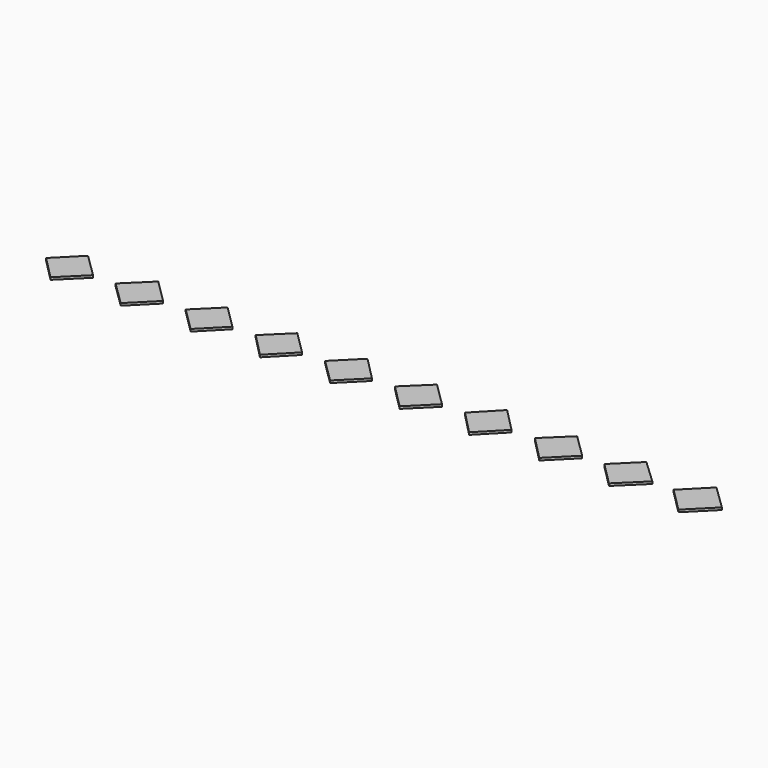
from build123d import *

# Parameters (mm, degrees)
PAD_DEPTH    = 0.1
PAD001_DEPTH = 0.1
PAD002_DEPTH = 0.1
PAD003_DEPTH = 0.1
PAD004_DEPTH = 0.1
PAD005_DEPTH = 0.1
PAD006_DEPTH = 0.1
PAD007_DEPTH = 0.1
PAD008_DEPTH = 0.1
PAD009_DEPTH = 0.1


with BuildPart() as body:
    # Sketch → Pad (new body)
    with BuildSketch(Plane.XY):
        Polygon((-50.003332, 3.991201), (-49.00509, 4.999953), (-47.992394, 4.001259), (-49.013175, 2.991808), align=None)
    extrude(amount=PAD_DEPTH)


with BuildPart() as body001:
    # Sketch001 → Pad001 (new body)
    with BuildSketch(Plane.XY):
        Polygon((-47.024363, 4.002387), (-45.994501, 5.009973), (-44.982828, 4.00995), (-45.996305, 2.995484), align=None)
    extrude(amount=PAD001_DEPTH)


with BuildPart() as body002:
    # Sketch002 → Pad002 (new body)
    with BuildSketch(Plane.XY):
        Polygon((-44.003082, 3.998589), (-42.99649, 4.991448), (-41.997009, 3.998589), (-42.987888, 2.992512), align=None)
    extrude(amount=PAD002_DEPTH)


with BuildPart() as body003:
    # Sketch003 → Pad003 (new body)
    with BuildSketch(Plane.XY):
        Polygon((-41.002041, 4.010614), (-39.999599, 4.990901), (-39.002697, 4.005076), (-39.999599, 2.98602), align=None)
    extrude(amount=PAD003_DEPTH)


with BuildPart() as body004:
    # Sketch004 → Pad004 (new body)
    with BuildSketch(Plane.XY):
        Polygon((-38.010006, 3.998946), (-36.99649, 5.012464), (-35.98851, 3.993408), (-36.990952, 2.996505), align=None)
    extrude(amount=PAD004_DEPTH)


with BuildPart() as body005:
    # Sketch005 → Pad005 (new body)
    with BuildSketch(Plane.XY):
        Polygon((-35.021519, 4.015711), (-34.000072, 5.003335), (-32.978626, 3.995417), (-33.993305, 2.987499), align=None)
    extrude(amount=PAD005_DEPTH)


with BuildPart() as body006:
    # Sketch006 → Pad006 (new body)
    with BuildSketch(Plane.XY):
        Polygon((-31.991966, 3.997936), (-31.005693, 5.028862), (-29.98966, 3.997936), (-30.990814, 2.969724), align=None)
    extrude(amount=PAD006_DEPTH)


with BuildPart() as body007:
    # Sketch007 → Pad007 (new body)
    with BuildSketch(Plane.XY):
        Polygon((-29.003521, 4.019531), (-27.979002, 5.011001), (-26.962746, 4.011269), (-27.987265, 2.986751), align=None)
    extrude(amount=PAD007_DEPTH)


with BuildPart() as body008:
    # Sketch008 → Pad008 (new body)
    with BuildSketch(Plane.XY):
        Polygon((-26.001736, 4.001732), (-24.992582, 5.000793), (-23.956856, 4.024814), (-25.002674, 3.002672), align=None)
    extrude(amount=PAD008_DEPTH)


with BuildPart() as body009:
    # Sketch009 → Pad009 (new body)
    with BuildSketch(Plane.XY):
        Polygon((-23.017265, 3.99637), (-21.998022, 5.025705), (-20.948503, 4.006462), (-21.98793, 2.967035), align=None)
    extrude(amount=PAD009_DEPTH)


solid = Compound([body.part, body001.part, body002.part, body003.part, body004.part, body005.part, body006.part, body007.part, body008.part, body009.part])
